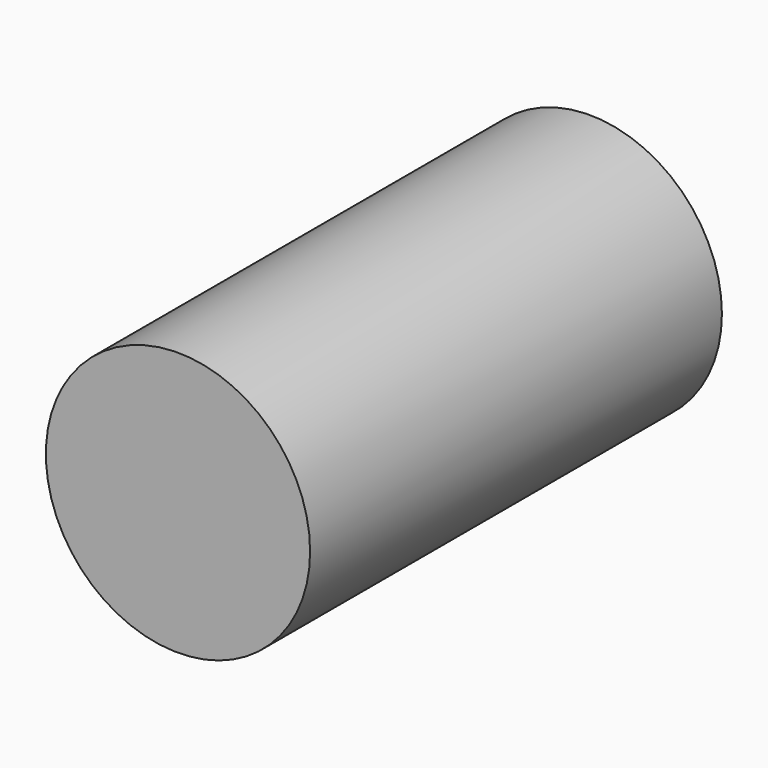
from build123d import *

# Parameters (mm, degrees)
F0_R     = 36.1810919244
F1_DEPTH = 25.4
F2_DEPTH = 25.4
F3_DEPTH = 90.17


with BuildPart() as f1:
    # F0 (on Front) → F1 (new body)
    with BuildSketch(Plane.XZ):
        with Locations((-101.2930572033, 34.8807759583)):
            Circle(F0_R)
    extrude(amount=F1_DEPTH)

    # F2 (add): faces of the model
    f2_faces = [f1.faces().sort_by_distance(p)[0] for p in [
        (-101.2930572033, -25.4, 34.8807759583),
        (-101.2930572033, 0, 34.8807759583),
    ]]
    extrude(f2_faces, amount=F2_DEPTH, dir=(0, -1, 0))

    # F3 (add): faces of the model
    f3_faces = [f1.faces().sort_by_distance(p)[0] for p in [
        (-101.2930572033, -50.8, 34.8807759583),
        (-101.2930572033, 0, 34.8807759583),
    ]]
    extrude(f3_faces, amount=F3_DEPTH, dir=(0, -1, 0))


solid = f1.part
